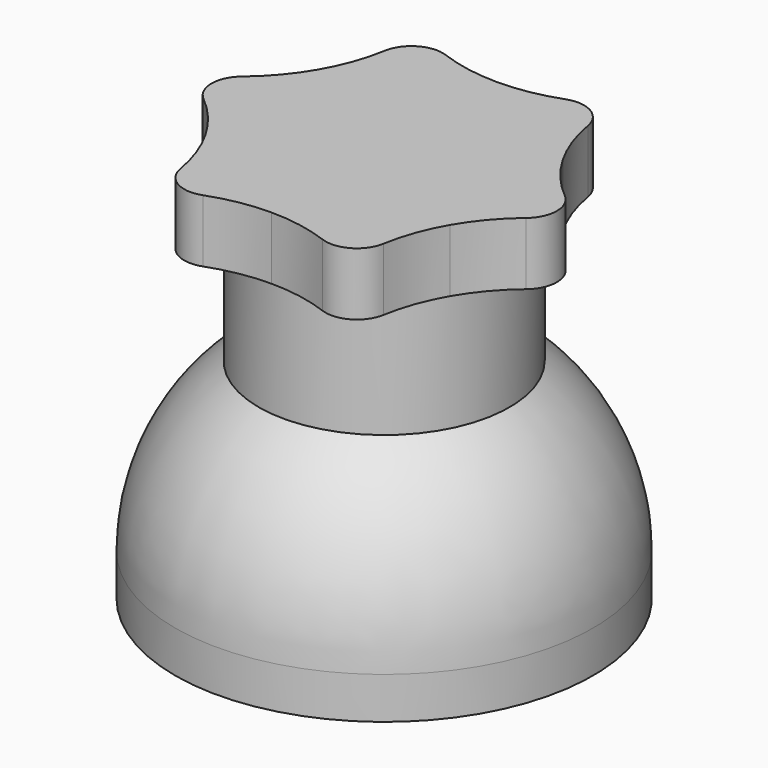
from build123d import *

# Parameters (mm, degrees)
PAD001_DEPTH       = 6
POLARPATTERN_COUNT = 6


with BuildPart() as part:
    # Sketch (on XZ_Plane of Origin) → Revolution (revolve)
    with BuildSketch(Plane.XZ):
        with BuildLine():
            Line((0, 32), (0, 21))
            ThreePointArc((0, 21), (-12.020815, 16.020815), (-17, 4))
            Line((-17, 0), (-17, 4))
            Line((-20, 0), (-17, 0))
            Line((-20, 4), (-20, 0))
            ThreePointArc((-12, 20), (-17.888544, 12.944272), (-20, 4))
            Line((-12, 20), (-12, 32))
            Line((-12, 32), (0, 32))
        make_face()
    revolve(axis=Axis((0, 0, 0), (0, 0, 1)))

    # Sketch001 (on Face2 of Revolution) → Pad001 (new body)
    with BuildSketch(Plane.XY.offset(32)):
        with BuildLine():
            ThreePointArc((0, 13.5), (2.90558, 13.757845), (5.72035, 14.523321))
            ThreePointArc((9.71739, 12.215628), (8.260413, 14.307455), (5.72035, 14.523321))
            ThreePointArc((9.71739, 12.215628), (10.461853, 9.395229), (11.691343, 6.75))
            Line((0, 0), (11.691343, 6.75))
            Line((0, 13.5), (0, 0))
        make_face()
    pad001 = extrude(amount=PAD001_DEPTH)

    # PolarPattern: Pad001 ×6 about axis
    polarpattern_axis = Axis((0, 0, 32), (0, 0, 1))
    for i in range(1, POLARPATTERN_COUNT):
        add(pad001.rotate(polarpattern_axis, i * 360 / POLARPATTERN_COUNT))


solid = part.part
